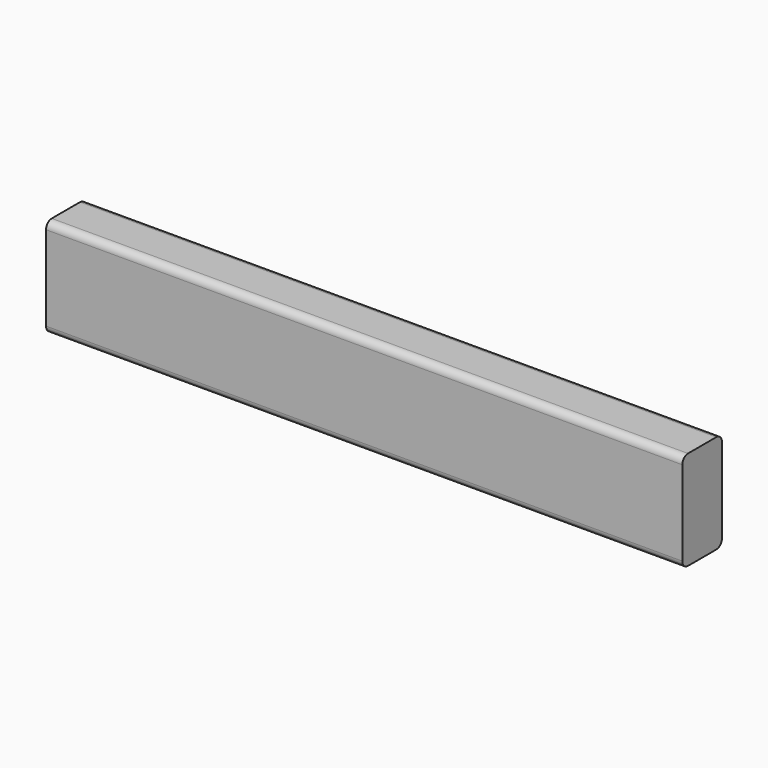
from build123d import *

# Parameters (mm, degrees)
F0_W     = 900
F0_H     = 140
F1_DEPTH = 70
F2_R     = 10
F4_DEPTH = 20


with BuildPart() as f1:
    # F0 (on Front) → F1 (new body)
    with BuildSketch(Plane.XZ):
        Rectangle(F0_W, F0_H)
    extrude(amount=F1_DEPTH)

    # F2
    f2_edges = [f1.edges().sort_by_distance(p)[0] for p in [
        (0, -70, 70),
        (0, 0, 70),
        (0, -70, -70),
        (0, 0, -70),
    ]]
    fillet(f2_edges, radius=F2_R)

    # F3 (on face) → F4 (join)
    with BuildSketch(Plane(origin=(0, 0, 0), x_dir=(-1, 0, 0), z_dir=(0, 1, 0))):
        with BuildLine():
            ThreePointArc((375, 30), (369.142136, 44.142136), (355, 50))
            Line((355, 50), (-355, 50))
            ThreePointArc((-355, 50), (-369.142136, 44.142136), (-375, 30))
            Line((-375, 30), (-375, -30))
            ThreePointArc((-375, -30), (-369.142136, -44.142136), (-355, -50))
            Line((-355, -50), (355, -50))
            ThreePointArc((355, -50), (369.142136, -44.142136), (375, -30))
            Line((375, -30), (375, 30))
        make_face()
    extrude(amount=F4_DEPTH)


solid = f1.part
